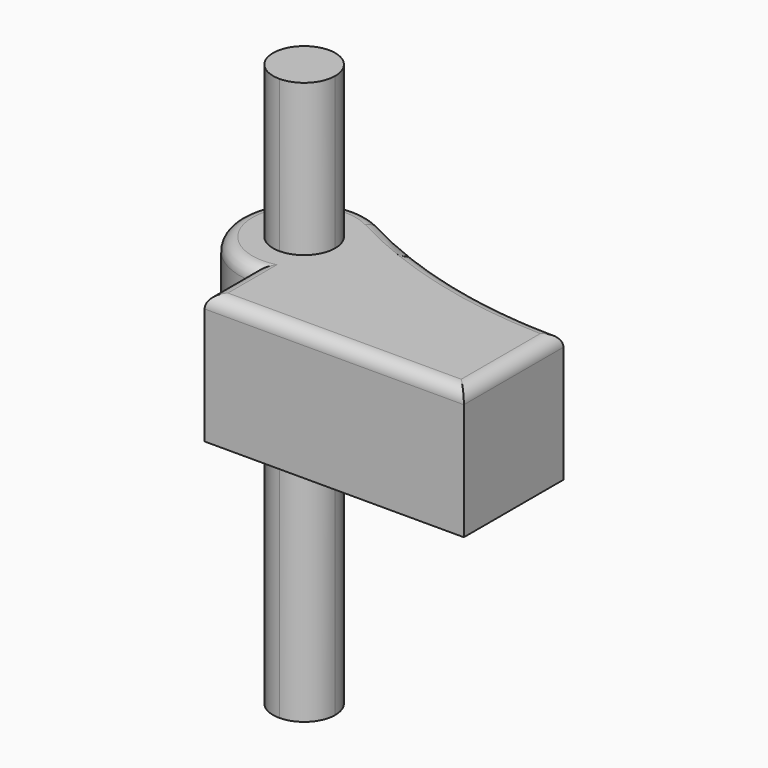
from build123d import *

# Parameters (mm, degrees)
F1_DEPTH = 50
F2_DEPTH = 108.5
F3_R     = 5


with BuildPart() as f1:
    # F0 (on Top) → F1 (new body)
    with BuildSketch(Plane.XY):
        with BuildLine():
            ThreePointArc((-38.2352941176, 46.0588235294), (-74.2535625036, 30.0633906259), (-50, -1))
            Line((-50, -1), (-50, 12.0136628569))
            ThreePointArc((-50, 12.0136628569), (-58.4756202755, 32.4756202755), (-38.0136628569, 24))
            Line((-38.0136628569, 24), (-25, 24))
            ThreePointArc((-25, 24), (-28.5626768572, 36.8623938857), (-38.2352941176, 46.0588235294))
        make_face()
        with BuildLine():
            Line((-50, 12.0136628569), (-50, -1))
            ThreePointArc((-50, -1), (-32.3223304703, 6.3223304703), (-25, 24))
            Line((-25, 24), (-38.0136628569, 24))
            ThreePointArc((-38.0136628569, 24), (-41.5243797245, 15.5243797245), (-50, 12.0136628569))
        make_face()
        with BuildLine():
            Line((-50, -24), (50, -24))
            Line((50, -24), (50, 24))
            Line((50, 24), (-25, 24))
            ThreePointArc((-25, 24), (-32.3223304703, 6.3223304703), (-50, -1))
            Line((-50, -1), (-50, -24))
        make_face()
        with BuildLine():
            Line((-25, 24), (50, 24))
            ThreePointArc((50, 24), (4.5245703057, 29.5982812228), (-38.2352941176, 46.0588235294))
            ThreePointArc((-38.2352941176, 46.0588235294), (-28.5626768572, 36.8623938857), (-25, 24))
        make_face()
    extrude(amount=F1_DEPTH)

    # F3
    f3_edges = [f1.edges().sort_by_distance(p)[0] for p in [
        (-74.253563, 30.063391, 50),
        (-50, -12.5, 50),
        (0, -24, 50),
        (50, 0, 50),
    ]]
    fillet(f3_edges, radius=F3_R)


with BuildPart() as f2:
    # F0 (on Top) → F2 (new body, symmetric)
    with BuildSketch(Plane.XY):
        with BuildLine():
            Line((-50, 24), (-50, 12.0136628569))
            ThreePointArc((-50, 12.0136628569), (-41.5243797245, 15.5243797245), (-38.0136628569, 24))
            Line((-38.0136628569, 24), (-50, 24))
        make_face()
        with BuildLine():
            ThreePointArc((-38.0136628569, 24), (-58.4756202755, 32.4756202755), (-50, 12.0136628569))
            Line((-50, 12.0136628569), (-50, 24))
            Line((-50, 24), (-38.0136628569, 24))
        make_face()
    extrude(amount=F2_DEPTH, both=True)


solid = Compound([f1.part, f2.part])
